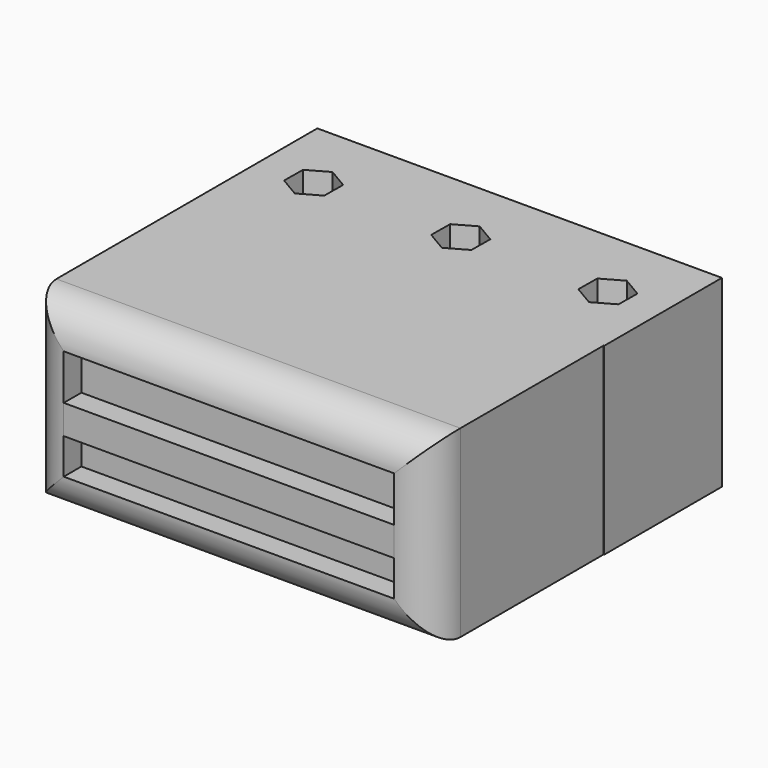
from build123d import *

# Parameters (mm, degrees)
F0_W          = 54.9165850133
F0_H          = 29.332328558
F1_DEPTH      = 25
F2_W          = 54.8067912459
F2_H          = 9.8693305627
F3_DEPTH      = 10
F3_DEPTH_BACK = 25
F4_DEPTH      = 3
F5_R          = 5
F6_W          = 44.9165850133
F6_H          = 6.1664939672
F6_H_2        = 4.8576648161
F7_DEPTH      = 3


with BuildPart() as f1:
    # F0 (on Top) → F1 (new body)
    with BuildSketch(Plane.XY):
        with Locations((-0.0417074934, -24.666164279)):
            Rectangle(F0_W, F0_H)
        Polygon((27.5, 10), (-27.5, 10), (-27.5, -10), (27.4165850133, -10), (27.5, -10), align=None)
        Polygon((-22.7641869603, -1.5628831632), (-22.7355900026, 1.6124145468), (-19.9714030424, 3.17529771), (-17.2358130397, 1.5628831632), (-17.2644099974, -1.6124145468), (-20.0285969576, -3.17529771), align=None, mode=Mode.SUBTRACT)
        Polygon((2.7641869603, 1.5628831632), (2.7355900026, -1.6124145468), (-0.0285969576, -3.17529771), (-2.7641869603, -1.5628831632), (-2.7355900026, 1.6124145468), (0.0285969576, 3.17529771), align=None, mode=Mode.SUBTRACT)
        Polygon((22.7641869603, 1.5628831632), (22.7355900026, -1.6124145468), (19.9714030424, -3.17529771), (17.2358130397, -1.5628831632), (17.2644099974, 1.6124145468), (20.0285969576, 3.17529771), align=None, mode=Mode.SUBTRACT)
    extrude(amount=F1_DEPTH)

    # F2 (on Front) → F3 (cut, two sides)
    with BuildSketch(Plane.XZ) as f3_sk:
        with Locations((-0.1290403306, 4.9346652813)):
            Rectangle(F2_W, F2_H)
    extrude(amount=F3_DEPTH, mode=Mode.SUBTRACT)
    extrude(f3_sk.sketch, amount=-F3_DEPTH_BACK, mode=Mode.SUBTRACT)

    # F0 (on Top) → F4 (join)
    with BuildSketch(Plane.XY):
        Polygon((27.5, 10), (-27.5, 10), (-27.5, -10), (27.4165850133, -10), (27.5, -10), align=None)
        Polygon((-22.7641869603, -1.5628831632), (-22.7355900026, 1.6124145468), (-19.9714030424, 3.17529771), (-17.2358130397, 1.5628831632), (-17.2644099974, -1.6124145468), (-20.0285969576, -3.17529771), align=None, mode=Mode.SUBTRACT)
        Polygon((2.7641869603, 1.5628831632), (2.7355900026, -1.6124145468), (-0.0285969576, -3.17529771), (-2.7641869603, -1.5628831632), (-2.7355900026, 1.6124145468), (0.0285969576, 3.17529771), align=None, mode=Mode.SUBTRACT)
        Polygon((22.7641869603, 1.5628831632), (22.7355900026, -1.6124145468), (19.9714030424, -3.17529771), (17.2358130397, -1.5628831632), (17.2644099974, 1.6124145468), (20.0285969576, 3.17529771), align=None, mode=Mode.SUBTRACT)
    extrude(amount=F4_DEPTH)

    # F5
    f5_edges = [f1.edges().sort_by_distance(p)[0] for p in [
        (-0.041707, -39.332329, 25),
        (-0.041707, -39.332329, 0),
        (27.416585, -39.332329, 12.5),
        (-27.5, -39.332329, 12.5),
    ]]
    fillet(f5_edges, radius=F5_R)

    # F6 (on face) → F7 (cut)
    with BuildSketch(Plane.XZ.offset(39.332328558)):
        with Locations((-0.0417074934, 16.9167530164)):
            Rectangle(F6_W, F6_H)
        with Locations((-0.0417074934, 7.428832408)):
            Rectangle(F6_W, F6_H_2)
    extrude(amount=-F7_DEPTH, mode=Mode.SUBTRACT)


solid = f1.part
